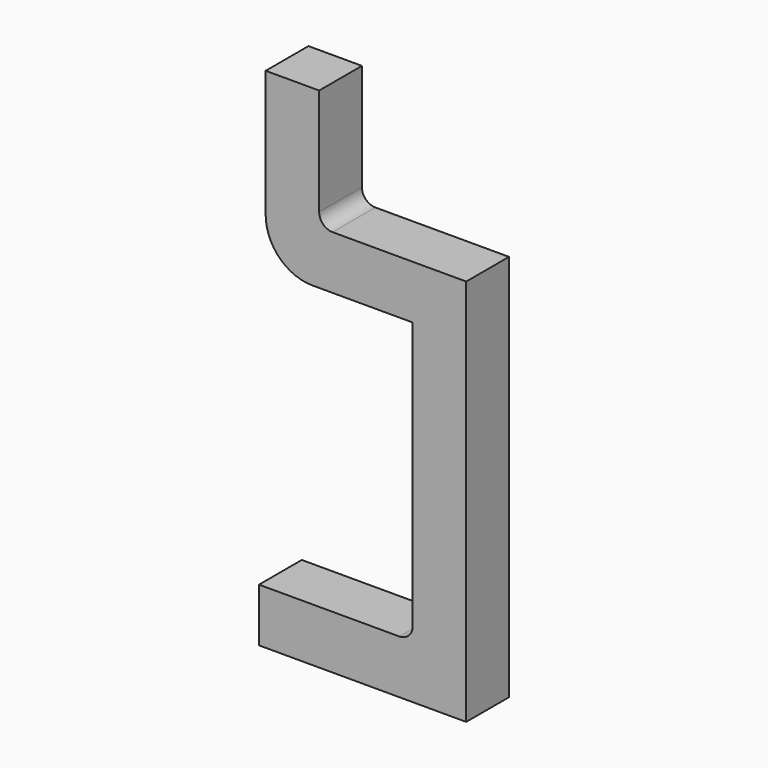
from build123d import *

# Parameters (mm, degrees)
F2_W = 4
F2_H = 4
F4_R = 3.5
F5_R = 1


with BuildPart() as f3:
    # F3: sweep along a path in F0
    with BuildLine(Plane.XZ) as f3_path:
        Line((-13.5, 0), (0, 0))
        Line((0, 0), (0, 25))
        Line((0, 25), (-11, 25))
        Line((-11, 25), (-11, 36))
    # F2 (on line) → F3 (sweep)
    with BuildSketch(Plane(origin=(-13.5, 0, 0), x_dir=(0, -1, 0), z_dir=(-1, 0, 0))):
        Rectangle(F2_W, F2_H)
    sweep(path=f3_path.line, transition=Transition.RIGHT)

    # F4
    f4_edges = [f3.edges().sort_by_distance(p)[0] for p in [
        (-13, 0, 23),
    ]]
    fillet(f4_edges, radius=F4_R)

    # F5
    f5_edges = [f3.edges().sort_by_distance(p)[0] for p in [
        (-9, 0, 27),
        (-2, 0, 2),
    ]]
    fillet(f5_edges, radius=F5_R)


solid = f3.part
